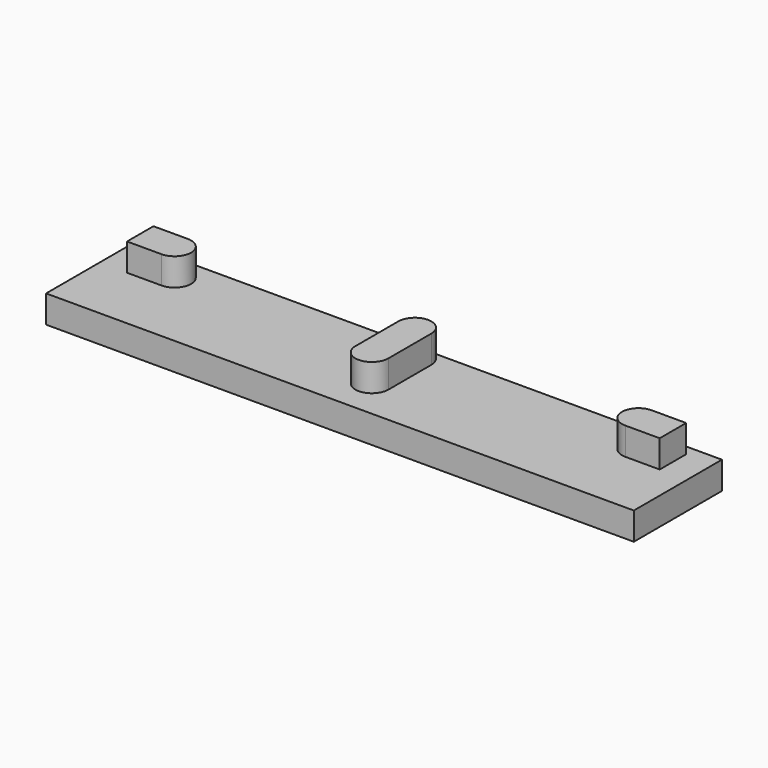
from build123d import *

# Parameters (mm, degrees)
F1_DEPTH = 2
F2_W     = 42.7
F2_H     = 8
F3_DEPTH = 2


with BuildPart() as f1:
    # F0 (on Top) → F1 (new body)
    with BuildSketch(Plane.XY):
        with BuildLine():
            Line((-1.2, -1.6), (-1.2, -5.5))
            ThreePointArc((-1.2, -5.5), (0, -6.7), (1.2, -5.5))
            Line((1.2, -5.5), (1.2, -1.6))
            ThreePointArc((1.2, -1.6), (0, -0.4), (-1.2, -1.6))
        make_face()
        with BuildLine():
            Line((-16.85, -1.15), (-19.35, -1.15))
            Line((-19.35, -1.15), (-19.35, -3.55))
            Line((-19.35, -3.55), (-16.85, -3.55))
            ThreePointArc((-16.85, -3.55), (-15.65, -2.35), (-16.85, -1.15))
        make_face()
        with BuildLine():
            Line((19.35, -3.55), (19.35, -1.15))
            Line((19.35, -1.15), (16.85, -1.15))
            ThreePointArc((16.85, -1.15), (15.65, -2.35), (16.85, -3.55))
            Line((16.85, -3.55), (19.35, -3.55))
        make_face()
    extrude(amount=F1_DEPTH)

    # F2 (on Top) → F3 (join)
    with BuildSketch(Plane.XY):
        with Locations((0, -4.4)):
            Rectangle(F2_W, F2_H)
    extrude(amount=-F3_DEPTH)


solid = f1.part
